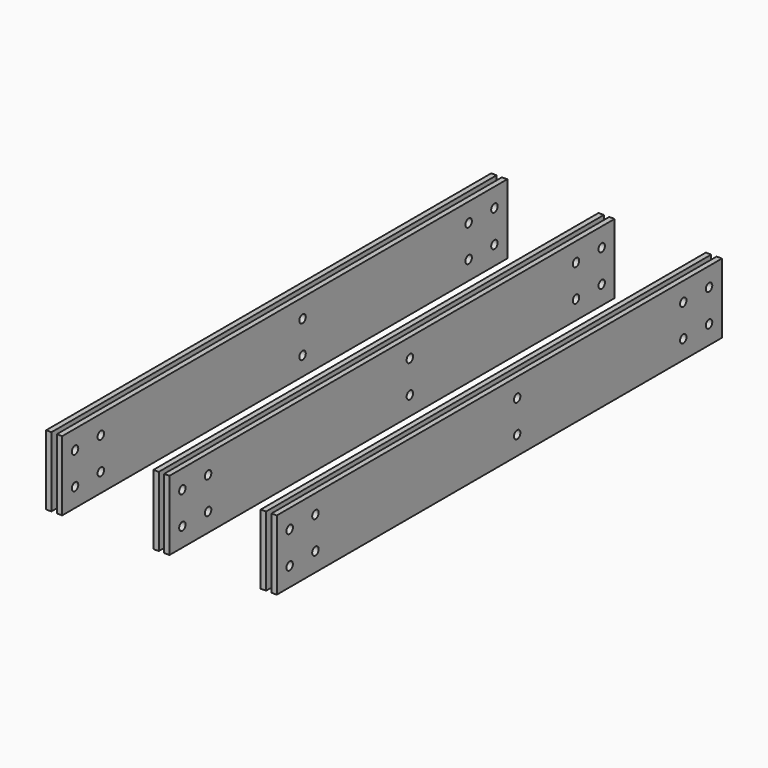
from build123d import *

# Parameters (mm, degrees)
F0_W     = 6.35
F0_H     = 658.495
F1_W     = 6.35
F1_H     = 658.495
F2_DEPTH = 41.275
F3_R     = 4.7625
F4_DEPTH = 273.051


with BuildPart() as f2:
    # F0 (on Top) + F1 (on Top) → F2 (new body, symmetric)
    with BuildSketch(Plane.XY):
        with Locations((3.175, 329.2475)):
            Rectangle(F0_W, F0_H)
        with Locations((130.175, 329.2475)):
            Rectangle(F0_W, F0_H)
        with Locations((257.175, 329.2475)):
            Rectangle(F0_W, F0_H)
    with BuildSketch(Plane.XY):
        with Locations((15.875, 329.2475)):
            Rectangle(F1_W, F1_H)
        with Locations((142.875, 329.2475)):
            Rectangle(F1_W, F1_H)
        with Locations((269.875, 329.2475)):
            Rectangle(F1_W, F1_H)
    extrude(amount=F2_DEPTH, both=True)

    # F3 (on face) → F4 (cut, through all)
    with BuildSketch(Plane(origin=(0, 0, 0), x_dir=(0, -1, 0), z_dir=(-1, 0, 0))):
        with Locations((-19.05, 19.05)):
            Circle(F3_R)
        with Locations((-57.15, 19.05)):
            Circle(F3_R)
        with Locations((-57.15, -19.05)):
            Circle(F3_R)
        with Locations((-19.05, -19.05)):
            Circle(F3_R)
        with Locations((-639.445, 19.05)):
            Circle(F3_R)
        with Locations((-601.345, 19.05)):
            Circle(F3_R)
        with Locations((-601.345, -19.05)):
            Circle(F3_R)
        with Locations((-639.445, -19.05)):
            Circle(F3_R)
        with Locations((-355.6, 19.05)):
            Circle(F3_R)
        with Locations((-355.6, -19.05)):
            Circle(F3_R)
    extrude(amount=-F4_DEPTH, mode=Mode.SUBTRACT)


solid = f2.part
